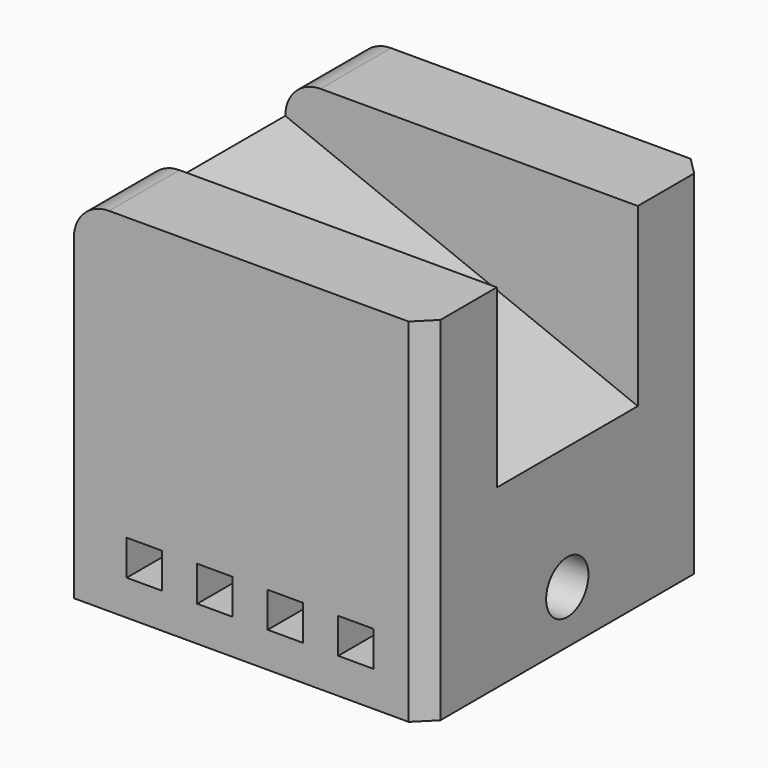
from build123d import *

# Parameters (mm, degrees)
F0_W     = 10
F0_H     = 10
F1_DEPTH = 100
F2_W     = 100
F2_H     = 25
F3_DEPTH = 100
F4_R     = 10
F6_D     = 15
F7_DEPTH = 20
F8_SIZE  = 5


with BuildPart() as f1:
    # F0 (on Front) → F1 (new body)
    with BuildSketch(Plane.XZ):
        Polygon((100, 50), (0, 90), (0, 10), (0, 0), (100, 0), align=None)
        with Locations((20, 15)):
            Rectangle(F0_W, F0_H, mode=Mode.SUBTRACT)
        with Locations((40, 15)):
            Rectangle(F0_W, F0_H, mode=Mode.SUBTRACT)
        with Locations((60, 15)):
            Rectangle(F0_W, F0_H, mode=Mode.SUBTRACT)
        with Locations((80, 15)):
            Rectangle(F0_W, F0_H, mode=Mode.SUBTRACT)
    extrude(amount=-F1_DEPTH)

    # F2 (on face) → F3 (join)
    with BuildSketch(Plane(origin=(0, 0, 0), x_dir=(1, 0, 0), z_dir=(0, 0, -1))):
        with Locations((50, -12.5)):
            Rectangle(F2_W, F2_H)
        with Locations((50, -87.5)):
            Rectangle(F2_W, F2_H)
    extrude(amount=-F3_DEPTH)

    # F4
    f4_edges = [f1.edges().sort_by_distance(p)[0] for p in [
        (0, 12.5, 100),
        (0, 87.5, 100),
    ]]
    fillet(f4_edges, radius=F4_R)

    # F6 (through all)
    with Locations(Plane(origin=(0, 0, 0), x_dir=(0, -1, 0), z_dir=(-1, 0, 0))):
        with Locations((-50, 15)):
            Hole(F6_D / 2)

    # F0 (on Front) → F7 (cut)
    with BuildSketch(Plane.XZ):
        with Locations((80, 15)):
            Rectangle(F0_W, F0_H)
        with Locations((60, 15)):
            Rectangle(F0_W, F0_H)
        with Locations((40, 15)):
            Rectangle(F0_W, F0_H)
        with Locations((20, 15)):
            Rectangle(F0_W, F0_H)
    extrude(amount=-F7_DEPTH, mode=Mode.SUBTRACT)

    # F8
    f8_edges = [f1.edges().sort_by_distance(p)[0] for p in [
        (100, 0, 50),
        (100, 100, 50),
    ]]
    chamfer(f8_edges, length=F8_SIZE)


solid = f1.part
